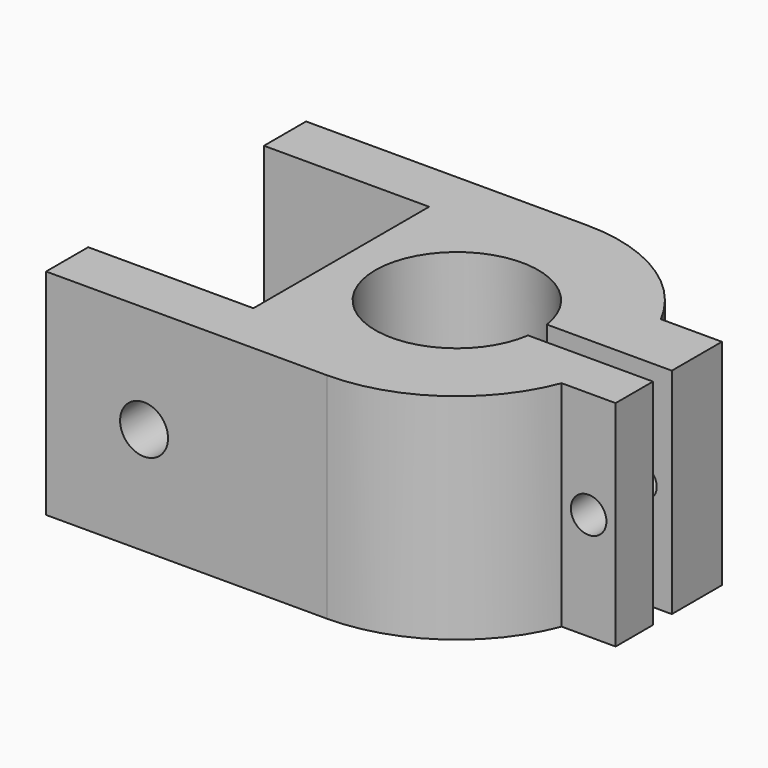
from build123d import *

# Parameters (mm, degrees)
F1_DEPTH = 20
F2_R     = 1.657373
F3_DEPTH = 4.354743
F4_R     = 1.445676
F5_DEPTH = 5.844262
F6_R     = 2.236419
F7_DEPTH = 30.325829


with BuildPart() as f1:
    # F0 (on Top) → F1 (new body)
    with BuildSketch(Plane.XY):
        with BuildLine():
            ThreePointArc((7.519909, -1.100443), (-7.6, 0), (7.519909, 1.100443))
            Line((7.519909, 1.100443), (19.17907, 1.100443))
            Line((19.17907, 1.100443), (19.17907, 6.944705))
            Line((19.17907, 6.944705), (13.478497, 6.944705))
            ThreePointArc((13.478497, 6.944705), (7.893045, 12.94599), (0, 15.162414))
            Line((0, 15.162414), (-26.202165, 15.162414))
            Line((-26.202165, 15.162414), (-26.202165, 10.25))
            Line((-26.202165, 10.25), (-10.786354, 10.25))
            Line((-10.786354, 10.25), (-10.786354, -10.25))
            Line((-10.786354, -10.25), (-26.202165, -10.25))
            Line((-26.202165, -10.25), (-26.202165, -15.162414))
            Line((-26.202165, -15.162414), (0, -15.162414))
            ThreePointArc((0, -15.162414), (8.578608, -12.502252), (14.147076, -5.455186))
            Line((14.147076, -5.455186), (19.17907, -5.455186))
            Line((19.17907, -5.455186), (19.17907, -1.100443))
            Line((19.17907, -1.100443), (7.519909, -1.100443))
        make_face()
    extrude(amount=F1_DEPTH)

    # F2 (on face) → F3 (cut, through all)
    with BuildSketch(Plane.XZ.offset(5.455186)):
        with Locations((16.663073, 10)):
            Circle(F2_R)
    extrude(amount=-F3_DEPTH, mode=Mode.SUBTRACT)

    # F4 (on face) → F5 (cut, through all)
    with BuildSketch(Plane(origin=(0, 6.944705, 0), x_dir=(-1, 0, 0), z_dir=(0, 1, 0))):
        with Locations((-16.328784, 10)):
            Circle(F4_R)
    extrude(amount=-F5_DEPTH, mode=Mode.SUBTRACT)

    # F6 (on face) → F7 (cut, through all)
    with BuildSketch(Plane.XZ.offset(15.162414)):
        with Locations((-17.060504, 10)):
            Circle(F6_R)
    extrude(amount=-F7_DEPTH, mode=Mode.SUBTRACT)


solid = f1.part
